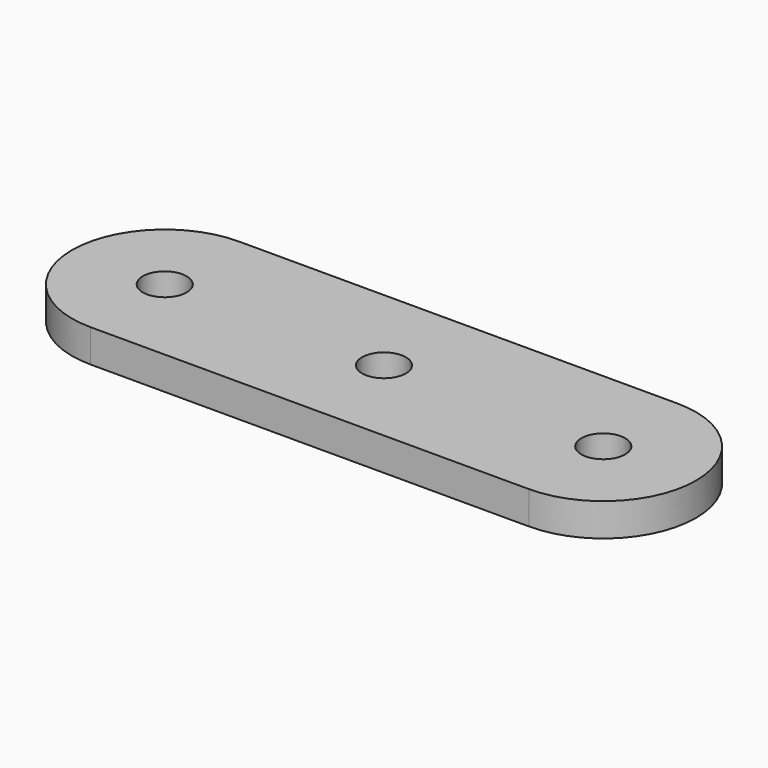
from build123d import *

# Parameters (mm, degrees)
F0_R     = 2
F1_DEPTH = 3


with BuildPart() as f1:
    # F0 (on Top) → F1 (new body)
    with BuildSketch(Plane.XY):
        with BuildLine():
            Line((20, 8.461538), (-20, 8.461538))
            ThreePointArc((-20, 8.461538), (-28.461538, 0), (-20, -8.461538))
            Line((-20, -8.461538), (20, -8.461538))
            ThreePointArc((20, -8.461538), (28.461538, 0), (20, 8.461538))
        make_face()
        with Locations((-20, 0)):
            Circle(F0_R, mode=Mode.SUBTRACT)
        Circle(F0_R, mode=Mode.SUBTRACT)
        with Locations((20, 0)):
            Circle(F0_R, mode=Mode.SUBTRACT)
    extrude(amount=F1_DEPTH)


solid = f1.part
